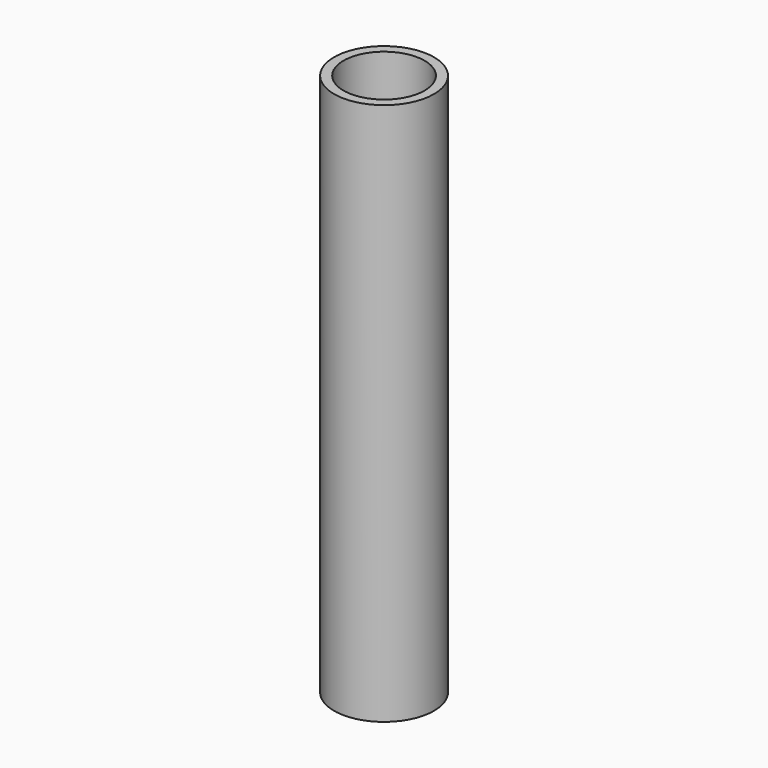
from build123d import *

# Parameters (mm, degrees)
SKETCH_R   = 25.4
SKETCH_R_2 = 20.6
PAD_DEPTH  = 276


with BuildPart() as part:
    # Sketch → Pad (new body)
    with BuildSketch(Plane.XY):
        Circle(SKETCH_R)
        Circle(SKETCH_R_2, mode=Mode.SUBTRACT)
    extrude(amount=PAD_DEPTH)


solid = part.part
